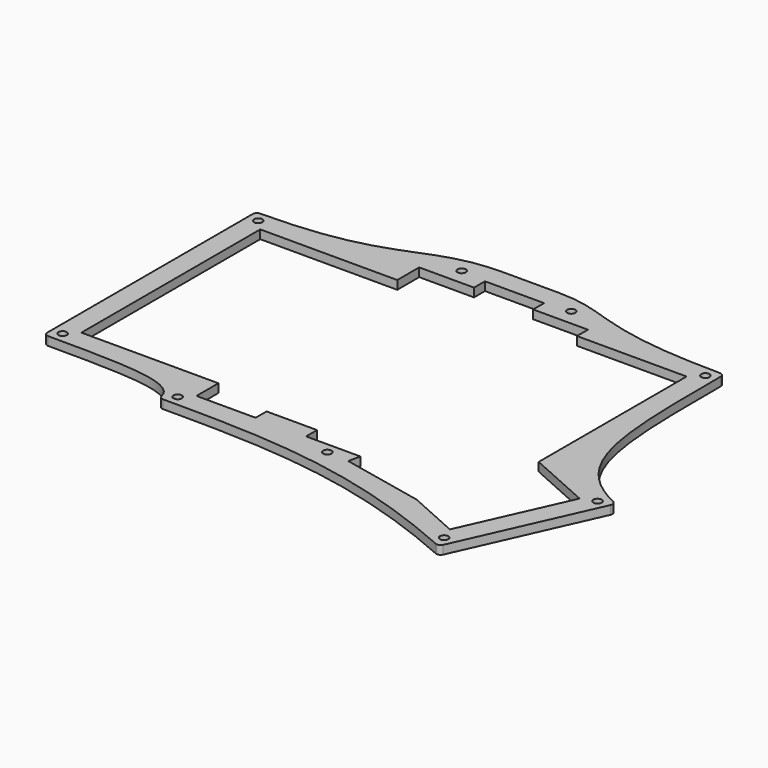
from build123d import *

# Parameters (mm, degrees)
PAD004_DEPTH    = 3
POCKET007_DEPTH = 5
SKETCH037_R     = 1.45
POCKET021_DEPTH = 9
FILLET002_R     = 1.5


with BuildPart() as part:
    # Sketch021 → Pad004 (new body)
    with BuildSketch(Plane.XY):
        with BuildLine():
            Line((85.725, 98.4875), (66.675, 98.4875))
            add(Edge.make_bspline(
                [(-8, 84.2), (39.625, 84.2), (39.625, 98.4875), (66.675, 98.4875)],
                knots=[0, 0, 0, 0, 1, 1, 1, 1], degree=3))
            Line((-8, 84.2), (-8, -8))
            add(Edge.make_bspline(
                [(39.625, -17.525), (39.625, -8), (20.575, -8), (-8, -8)],
                knots=[0, 0, 0, 0, 1, 1, 1, 1], degree=3))
            add(Edge.make_bspline(
                [(153.231854, -38.154949), (107.082107, -17.525), (76.2, -17.525), (39.625, -17.525)],
                knots=[0, 0, 0, 0, 1, 1, 1, 1], degree=3))
            Line((153.231854, -38.154949), (175.310198, 11.234895))
            add(Edge.make_bspline(
                [(150.875, 88.9625), (150.875, 42.8625), (150.875, 22.157965), (175.310198, 11.234895)],
                knots=[0, 0, 0, 0, 1, 1, 1, 1], degree=3))
            add(Edge.make_bspline(
                [(85.725, 98.4875), (104.775, 98.4875), (104.775, 88.9625), (150.875, 88.9625)],
                knots=[0, 0, 0, 0, 1, 1, 1, 1], degree=3))
        make_face()
    extrude(amount=PAD004_DEPTH)

    # Sketch023 → Pocket007 (cut)
    with BuildSketch(Plane(origin=(0, 0, 0), x_dir=(1, 0, 0), z_dir=(0, 0, -1))):
        Polygon((-0.75, 0.75), (-0.75, -76.95), (46.875, -76.95), (46.875, -86.475), (65.925, -86.475), (65.925, -91.2375), (86.475, -91.2375), (86.475, -86.475), (105.525, -86.475), (105.525, -81.7125), (143.625, -81.7125), (143.625, -17.457464), (165.732668, -7.574851), (149.57181, 28.577419), (131.568158, 20.529392), (102.96164, 14.448889), (103.848827, 10.275), (84.975, 10.275), (84.975, 5.5125), (67.425, 5.5125), (67.425, 10.275), (46.875, 10.275), (46.875, 0.75), align=None)
    extrude(amount=-POCKET007_DEPTH, mode=Mode.SUBTRACT)

    # Sketch037 → Pocket021 (cut)
    with BuildSketch(Plane.XY):
        with Locations((-4.375, -4.375)):
            Circle(SKETCH037_R)
        with Locations((-4.375, 80.575)):
            Circle(SKETCH037_R)
        with Locations((151.401832, -33.366184)):
            Circle(SKETCH037_R)
        with Locations((170.521433, 9.404873)):
            Circle(SKETCH037_R)
        with Locations((147.25, 85.3375)):
            Circle(SKETCH037_R)
        with Locations((43.25, -13.9)):
            Circle(SKETCH037_R)
        with Locations((57.15, 92.085)):
            Circle(SKETCH037_R)
        with Locations((95.25, 92.085)):
            Circle(SKETCH037_R)
        with Locations((95.25, -13.9)):
            Circle(SKETCH037_R)
    extrude(amount=POCKET021_DEPTH, mode=Mode.SUBTRACT)

    # Fillet002
    fillet002_edges = [part.edges().sort_by_distance(p)[0] for p in [
        (-8, -8, 1.5),
        (-8, 84.2, 1.5),
        (150.875, 88.9625, 1.5),
        (175.310198, 11.234895, 1.5),
        (153.231854, -38.154949, 1.5),
        (39.625, -17.525, 1.5),
    ]]
    fillet(fillet002_edges, radius=FILLET002_R)


with BuildPart() as part_1:
    # Body003 placement: moved
    add(part.part.moved(Location((0, 0, 6))))


solid = part_1.part
